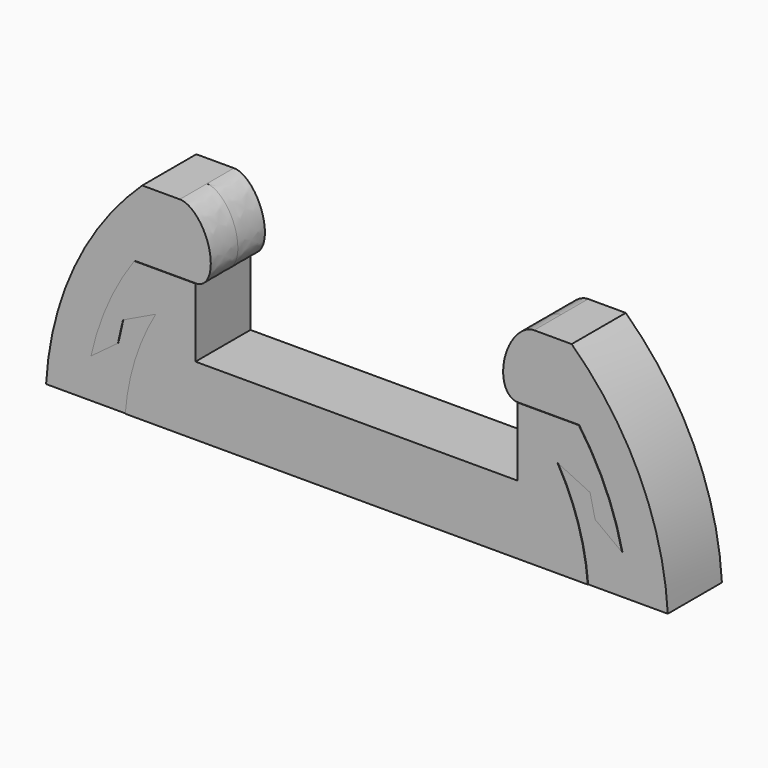
from build123d import *

# Parameters (mm, degrees)
F2_DEPTH = 3.2
F3_DEPTH = 3.15


with BuildPart() as f2:
    # F1 (on Front) → F2 (new body, symmetric)
    with BuildSketch(Plane.XZ):
        with BuildLine():
            Line((-15, 6.4), (-15, 12.8))
            Line((-15, 12.8), (-20.6991873327, 12.8))
            ThreePointArc((-20.6991873327, 12.8), (-23.1740174751, 8.453860578), (-24.7278906085, 3.7))
            Line((-24.7278906085, 3.7), (-22.2216690949, 5.5634498618))
            Line((-22.2216690949, 5.5634498618), (-21.7527165138, 7.6259613264))
            Line((-21.7527165138, 7.6259613264), (-18.7, 9.0853274271))
            ThreePointArc((-18.7, 9.0853274271), (-20.6377910154, 4.7045853769), (-21.5393515296, 0))
            Line((-21.5393515296, 0), (21.5393515296, 0))
            ThreePointArc((21.5393515296, 0), (20.6377910154, 4.7045853769), (18.7, 9.0853274271))
            Line((18.7, 9.0853274271), (21.7527165138, 7.6259613264))
            Line((21.7527165138, 7.6259613264), (22.2216690949, 5.5634498618))
            Line((22.2216690949, 5.5634498618), (24.7278906085, 3.7))
            ThreePointArc((24.7278906085, 3.7), (23.1740174751, 8.453860578), (20.6991873327, 12.8))
            Line((20.6991873327, 12.8), (15, 12.8))
            Line((15, 12.8), (15, 6.4))
            Line((15, 6.4), (-15, 6.4))
        make_face()
    extrude(amount=F2_DEPTH, both=True)

    # F1 (on Front) → F3 (join, symmetric)
    with BuildSketch(Plane.XZ):
        with BuildLine():
            add(Edge.make_bspline(
                [(-15.0000000141, 12.8), (-13, 12.8), (-13.7500000053, 16.0000000226), (-14.5000000106, 19.2000000451), (-16.5000000141, 19.2)],
                knots=[6.0755071268, 6.0755071268, 6.0755071268, 7.6463034607, 7.6463034607, 9.2170997945, 9.2170997945, 9.2170997945], degree=2, weights=[1, 0.7071067787, 1, 0.7071067787, 1]))
            Line((-16.5, 19.2), (-20, 19.2))
            ThreePointArc((-20, 19.2), (-26.3254080652, 10.4618610287), (-28.9551083691, 0))
            Line((-28.9551083691, 0), (-21.5393515296, 0))
            ThreePointArc((-21.5393515296, 0), (-20.6377910154, 4.7045853769), (-18.7, 9.0853274271))
            Line((-18.7, 9.0853274271), (-21.7527165138, 7.6259613264))
            Line((-21.7527165138, 7.6259613264), (-22.2216690949, 5.5634498618))
            Line((-22.2216690949, 5.5634498618), (-24.7278906085, 3.7))
            ThreePointArc((-24.7278906085, 3.7), (-23.1740174751, 8.453860578), (-20.6991873327, 12.8))
            Line((-20.6991873327, 12.8), (-15, 12.8))
        make_face()
        with BuildLine():
            ThreePointArc((18.7, 9.0853274271), (20.6377910154, 4.7045853769), (21.5393515296, 0))
            Line((21.5393515296, 0), (28.9551083691, 0))
            ThreePointArc((28.9551083691, 0), (26.3254080652, 10.4618610287), (20, 19.2))
            Line((20, 19.2), (16.5, 19.2))
            add(Edge.make_bspline(
                [(16.5, 19.2), (14.4999999859, 19.2), (13.7499999859, 16), (12.9999999859, 12.8), (15, 12.8)],
                knots=[0.2076781861, 0.2076781861, 0.2076781861, 1.7784745129, 1.7784745129, 3.3492708397, 3.3492708397, 3.3492708397], degree=2, weights=[1, 0.7071067812, 1, 0.7071067812, 1]))
            Line((15, 12.8), (20.6991873327, 12.8))
            ThreePointArc((20.6991873327, 12.8), (23.1740174751, 8.453860578), (24.7278906085, 3.7))
            Line((24.7278906085, 3.7), (22.2216690949, 5.5634498618))
            Line((22.2216690949, 5.5634498618), (21.7527165138, 7.6259613264))
            Line((21.7527165138, 7.6259613264), (18.7, 9.0853274271))
        make_face()
    extrude(amount=F3_DEPTH, both=True)


solid = f2.part
